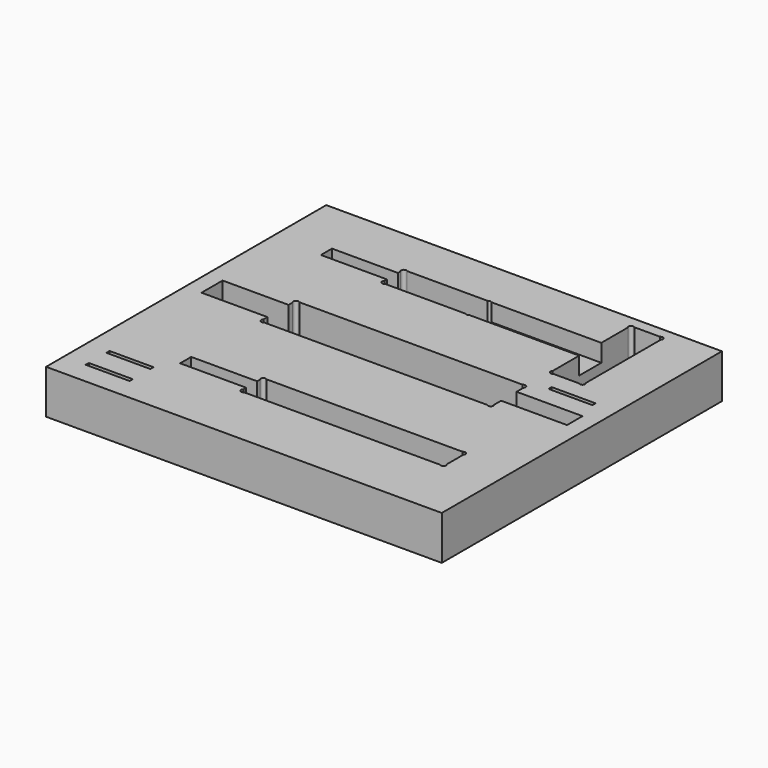
from build123d import *

# Parameters (mm, degrees)
F0_W      = 114.3
F0_H      = 76.2
F1_DEPTH  = 12.7
F3_DEPTH  = 11.43
F4_W      = 12.7
F4_H      = 1.143
F5_DEPTH  = 11.43
F8_DEPTH  = 11.43
F9_R      = 0.75
F10_DEPTH = 11.43
F11_W     = 114.3
F11_H     = 24.9555
F12_DEPTH = 12.7
F14_DEPTH = 11.43
F16_DEPTH = 5.08
F18_W     = 25.4
F18_H     = 8.001
F19_DEPTH = 2.54
F21_R     = 0.75
F22_DEPTH = 7.62
F23_R     = 0.75
F24_DEPTH = 11.43


with BuildPart() as f1:
    # F0 (on Top) → F1 (new body)
    with BuildSketch(Plane.XY):
        with Locations((-57.15, -38.1)):
            Rectangle(F0_W, F0_H)
    extrude(amount=F1_DEPTH)

    # F2 (on face) → F3 (cut)
    with BuildSketch(Plane.XY.offset(12.7)):
        Polygon((-90.4875, -18.415), (-109.5375, -18.415), (-109.5375, -26.035), (-90.4875, -26.035), (-90.4875, -28.575), (-23.8125, -28.575), (-23.8125, -25.019), (-4.7625, -25.019), (-4.7625, -19.431), (-23.8125, -19.431), (-23.8125, -15.875), (-90.4875, -15.875), align=None)
    extrude(amount=-F3_DEPTH, mode=Mode.SUBTRACT)

    # F4 (on face) → F5 (cut)
    with BuildSketch(Plane.XY.offset(12.7)):
        with Locations((-12.7, -13.2715)):
            Rectangle(F4_W, F4_H)
        with Locations((-101.6, -69.2785)):
            Rectangle(F4_W, F4_H)
        with Locations((-101.6, -61.7855)):
            Rectangle(F4_W, F4_H)
    extrude(amount=-F5_DEPTH, mode=Mode.SUBTRACT)

    # F7 (on face) → F8 (cut)
    with BuildSketch(Plane.XY.offset(12.7)):
        Polygon((-91.7575, -55.975), (-72.7075, -55.975), (-72.7075, -58.039), (-13.97, -58.039), (-13.97, -49.911), (-72.7075, -49.911), (-72.7075, -51.975), (-91.7575, -51.975), align=None)
    extrude(amount=-F8_DEPTH, mode=Mode.SUBTRACT)

    # F9 (on face) → F10 (cut)
    with BuildSketch(Plane.XY.offset(12.7)):
        with Locations((-89.9571699141, -16.4053300859)):
            Circle(F9_R)
        with Locations((-89.9571699141, -28.0446699141)):
            Circle(F9_R)
        with Locations((-24.3428300859, -28.0446699141)):
            Circle(F9_R)
        with Locations((-24.3428300859, -16.4053300859)):
            Circle(F9_R)
        with Locations((-14.5003300859, -50.4413300859)):
            Circle(F9_R)
        with Locations((-14.5003300859, -57.5086699141)):
            Circle(F9_R)
        with Locations((-72.1771699141, -50.4413300859)):
            Circle(F9_R)
        with Locations((-72.1771699141, -57.5086699141)):
            Circle(F9_R)
    extrude(amount=-F10_DEPTH, mode=Mode.SUBTRACT)

    # F11 (on face) → F12 (join)
    with BuildSketch(Plane.XY.offset(12.7)):
        with Locations((-57.15, 12.47775)):
            Rectangle(F11_W, F11_H)
    extrude(amount=-F12_DEPTH)

    # F13 (on face) → F14 (cut)
    with BuildSketch(Plane.XY.offset(12.7)):
        Polygon((-14.2875, 21.7805), (-23.8125, 21.7805), (-23.8125, 11.176), (-23.8125, 3.175), (-23.8125, -7.4295), (-14.2875, -7.4295), align=None)
    extrude(amount=-F14_DEPTH, mode=Mode.SUBTRACT)

    # F15 (on face) → F16 (cut)
    with BuildSketch(Plane.XY.offset(12.7)):
        Polygon((-23.8125, 11.176), (-80.9625, 11.176), (-80.9625, 9.1755), (-100.0125, 9.1755), (-100.0125, 5.1755), (-80.9625, 5.1755), (-80.9625, 3.175), (-23.8125, 3.175), align=None)
    extrude(amount=-F16_DEPTH, mode=Mode.SUBTRACT)

    # F18 (on 3pt) → F19 (cut)
    with BuildSketch(Plane.XY.offset(7.62)):
        with Locations((-68.2625, 7.1755)):
            Rectangle(F18_W, F18_H)
    extrude(amount=-F19_DEPTH, mode=Mode.SUBTRACT)

    # F21 (on face) → F22 (cut)
    with BuildSketch(Plane.XY.offset(12.7)):
        with Locations((-56.0928300859, 10.6456699141)):
            Circle(F21_R)
        with Locations((-56.0928300859, 3.7053300859)):
            Circle(F21_R)
        with Locations((-80.4321699141, 3.7053300859)):
            Circle(F21_R)
        with Locations((-80.4321699141, 10.6456699141)):
            Circle(F21_R)
    extrude(amount=-F22_DEPTH, mode=Mode.SUBTRACT)

    # F23 (on face) → F24 (cut)
    with BuildSketch(Plane.XY.offset(12.7)):
        with Locations((-23.2821699141, -6.8991699141)):
            Circle(F23_R)
        with Locations((-14.8178300859, -6.8991699141)):
            Circle(F23_R)
        with Locations((-23.2821699141, 21.2501699141)):
            Circle(F23_R)
        with Locations((-14.8178300859, 21.2501699141)):
            Circle(F23_R)
    extrude(amount=-F24_DEPTH, mode=Mode.SUBTRACT)


solid = f1.part
